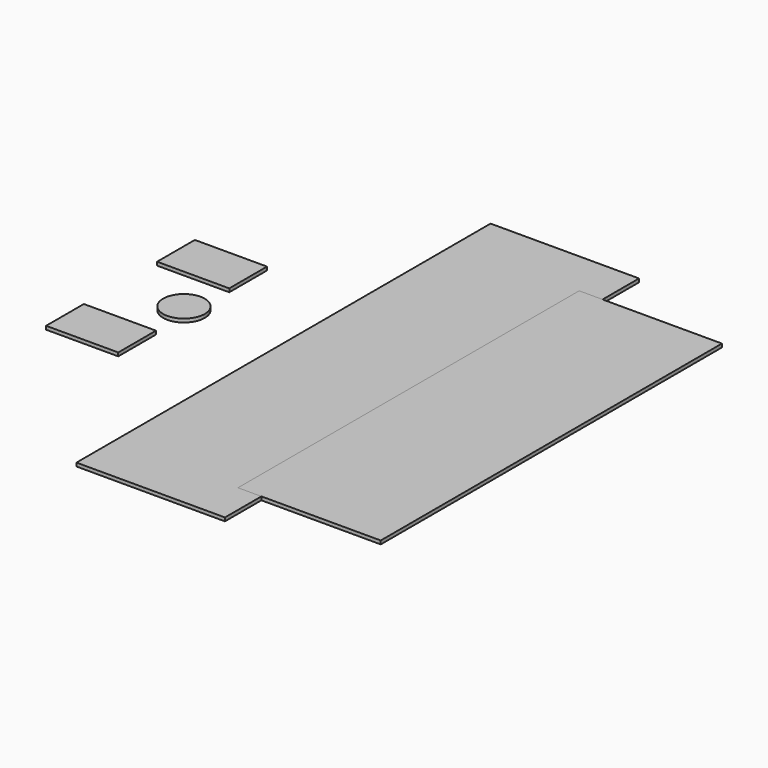
from build123d import *

# Parameters (mm, degrees)
F2_DEPTH = 25
F1_W     = 520
F1_H     = 340
F0_R     = 150


with BuildPart() as f2:
    # F1 (on Top) → F2 (new body)
    with BuildSketch(Plane.XY):
        Polygon((-18920, -1865), (-18920, 0), (-18920, 1865), (-19990, 1865), (-19990, -1865), align=None)
    extrude(amount=F2_DEPTH)


with BuildPart() as f2b:
    # F1 (on Top) → F2, piece 2 (new body)
    with BuildSketch(Plane.XY):
        with Locations((-20905, -500)):
            Rectangle(F1_W, F1_H)
    extrude(amount=F2_DEPTH)


with BuildPart() as f2c:
    # F1 (on Top) → F2, piece 3 (new body)
    with BuildSketch(Plane.XY):
        with Locations((-20905, 500)):
            Rectangle(F1_W, F1_H)
    extrude(amount=F2_DEPTH)


with BuildPart() as f2d:
    # F0 (on Top) → F2, piece 4 (new body)
    with BuildSketch(Plane.XY):
        Polygon((-19088.75, -1536.7), (-18060.05, -1536.7), (-18060.05, 0), (-18060.05, 1536.7), (-19088.75, 1536.7), align=None)
    extrude(amount=F2_DEPTH)


with BuildPart() as f2e:
    # F0 (on Top) → F2, piece 5 (new body)
    with BuildSketch(Plane.XY):
        with Locations((-20707.4, 0)):
            Circle(F0_R)
    extrude(amount=F2_DEPTH)


solid = Compound([f2.part, f2b.part, f2c.part, f2d.part, f2e.part])
